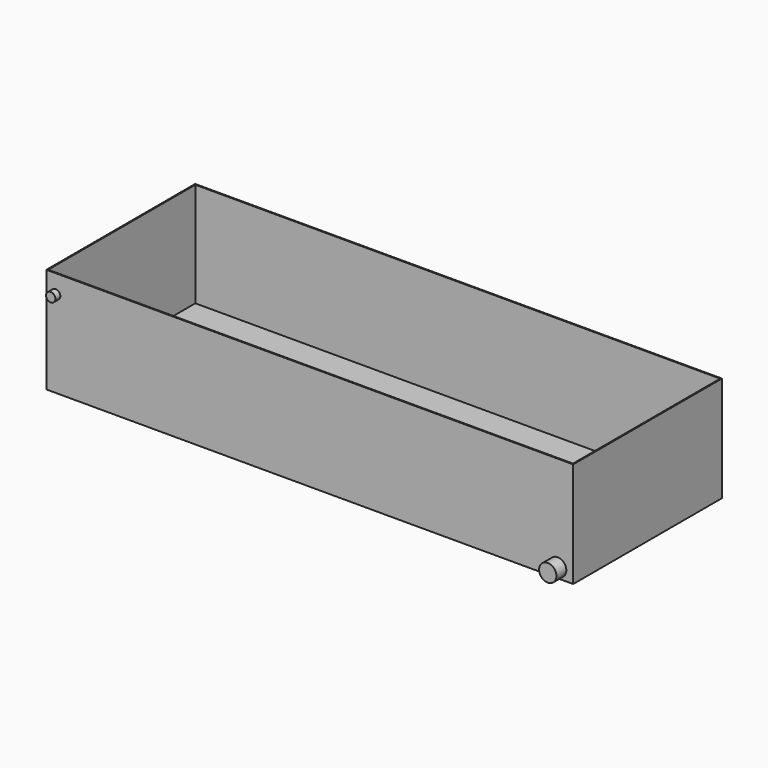
from build123d import *

# Parameters (mm, degrees)
F0_W          = 850
F0_H          = 300
F1_DEPTH      = 85
F1_DEPTH_BACK = 85
F2_T          = -1.6
F3_R          = 14
F4_DEPTH      = 20
F5_R          = 7.5
F6_DEPTH      = 10


with BuildPart() as f1:
    # F0 (on Top) → F1 (new body, two sides)
    with BuildSketch(Plane.XY) as f1_sk:
        Rectangle(F0_W, F0_H)
    extrude(amount=F1_DEPTH)
    extrude(f1_sk.sketch, amount=-F1_DEPTH_BACK)

    # F2
    f2_openings = [f1.faces().sort_by_distance(p)[0] for p in [
        (0, 0, 85),
    ]]
    offset(amount=F2_T, openings=f2_openings)

    # F3 (on face) → F4 (join)
    with BuildSketch(Plane.XZ.offset(150)):
        with Locations((400, -69)):
            Circle(F3_R)
    extrude(amount=F4_DEPTH)

    # F5 (on face) → F6 (join)
    with BuildSketch(Plane.XZ.offset(150)):
        with Locations((-410, 55)):
            Circle(F5_R)
    extrude(amount=F6_DEPTH)


solid = f1.part
